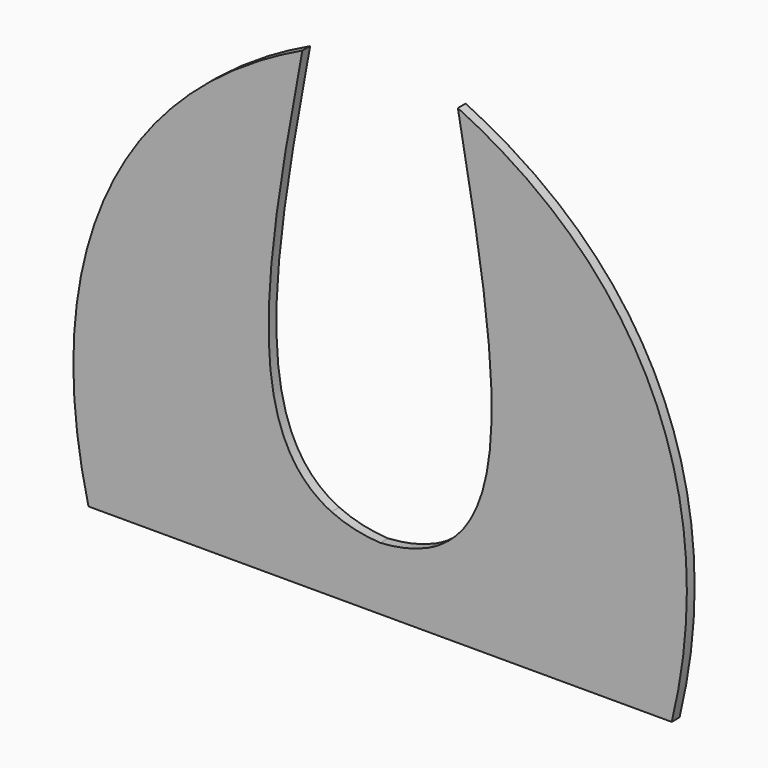
from build123d import *

# Parameters (mm, degrees)
F1_DEPTH = 1


with BuildPart() as f1:
    # F0 (on Front) → F1 (new body)
    with BuildSketch(Plane.XZ):
        with BuildLine():
            add(Edge.make_bspline(
                [(-30, 0), (-34.879449755, 19.9921391904), (-28.4803413302, 38.7091490242), (-8, 48.4398126617)],
                knots=[0, 0, 0, 0, 53.2016489472, 53.2016489472, 53.2016489472, 53.2016489472], degree=3))
            Line((-30, 0), (-15, 0))
            Line((-15, 0), (-5, 7.6439085788))
            add(Edge.make_bspline(
                [(-8, 48.4398126617), (-11.6694678262, 28.6087372906), (-14.5898662605, 12.1491369723), (-5, 7.6439085788)],
                knots=[0, 0, 0, 0, 37.3170774752, 37.3170774752, 37.3170774752, 37.3170774752], degree=3))
        make_face()
        with BuildLine():
            Line((-5, 7.6439085788), (-15, 0))
            Line((-15, 0), (15, 0))
            Line((15, 0), (5, 7.6439085788))
            add(Edge.make_bspline(
                [(5, 7.6439085788), (3.6086462208, 6.9902637436), (1.9539526172, 6.5882572453), (0, 6.4641016151)],
                knots=[37.3170774752, 37.3170774752, 37.3170774752, 37.3170774752, 42.7312569188, 42.7312569188, 42.7312569188, 42.7312569188], degree=3))
            add(Edge.make_bspline(
                [(-5, 7.6439085788), (-3.6086462208, 6.9902637436), (-1.9539526172, 6.5882572453), (0, 6.4641016151)],
                knots=[37.3170774752, 37.3170774752, 37.3170774752, 37.3170774752, 42.7312569188, 42.7312569188, 42.7312569188, 42.7312569188], degree=3))
        make_face()
        with BuildLine():
            Line((5, 7.6439085788), (15, 0))
            Line((15, 0), (30, 0))
            add(Edge.make_bspline(
                [(30, 0), (34.879449755, 19.9921391904), (28.4803413302, 38.7091490242), (8, 48.4398126617)],
                knots=[0, 0, 0, 0, 53.2016489472, 53.2016489472, 53.2016489472, 53.2016489472], degree=3))
            add(Edge.make_bspline(
                [(8, 48.4398126617), (11.6694678262, 28.6087372906), (14.5898662605, 12.1491369723), (5, 7.6439085788)],
                knots=[0, 0, 0, 0, 37.3170774752, 37.3170774752, 37.3170774752, 37.3170774752], degree=3))
        make_face()
        with BuildLine():
            Line((-5, 7.6439085788), (-15, 0))
            Line((-15, 0), (15, 0))
            Line((15, 0), (5, 7.6439085788))
            add(Edge.make_bspline(
                [(5, 7.6439085788), (3.6086462208, 6.9902637436), (1.9539526172, 6.5882572453), (0, 6.4641016151)],
                knots=[37.3170774752, 37.3170774752, 37.3170774752, 37.3170774752, 42.7312569188, 42.7312569188, 42.7312569188, 42.7312569188], degree=3))
            add(Edge.make_bspline(
                [(-5, 7.6439085788), (-3.6086462208, 6.9902637436), (-1.9539526172, 6.5882572453), (0, 6.4641016151)],
                knots=[37.3170774752, 37.3170774752, 37.3170774752, 37.3170774752, 42.7312569188, 42.7312569188, 42.7312569188, 42.7312569188], degree=3))
        make_face()
        with BuildLine():
            add(Edge.make_bspline(
                [(-30, 0), (-34.879449755, 19.9921391904), (-28.4803413302, 38.7091490242), (-8, 48.4398126617)],
                knots=[0, 0, 0, 0, 53.2016489472, 53.2016489472, 53.2016489472, 53.2016489472], degree=3))
            Line((-30, 0), (-15, 0))
            Line((-15, 0), (-5, 7.6439085788))
            add(Edge.make_bspline(
                [(-8, 48.4398126617), (-11.6694678262, 28.6087372906), (-14.5898662605, 12.1491369723), (-5, 7.6439085788)],
                knots=[0, 0, 0, 0, 37.3170774752, 37.3170774752, 37.3170774752, 37.3170774752], degree=3))
        make_face()
    extrude(amount=F1_DEPTH)


solid = f1.part
